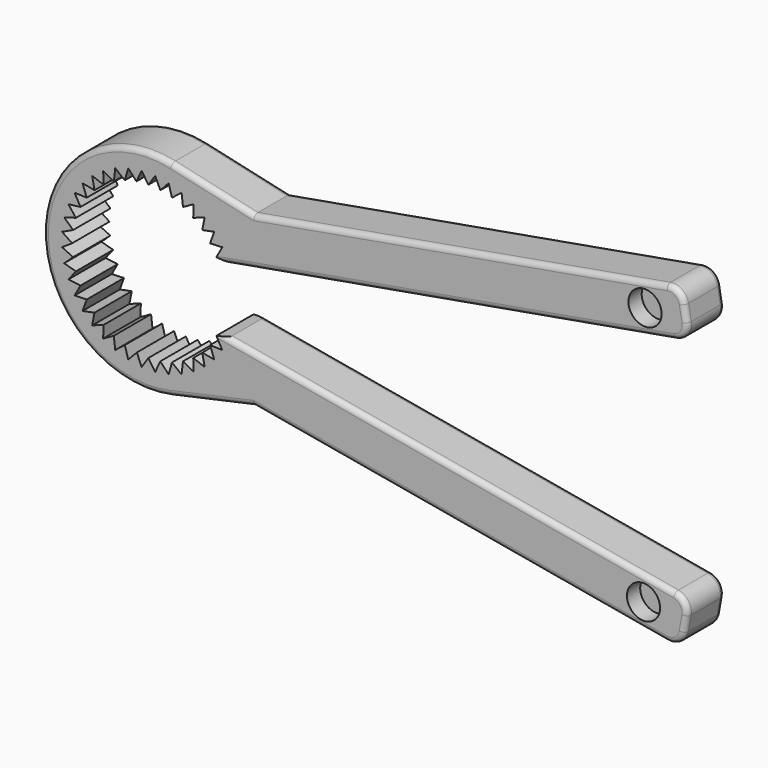
from build123d import *

# Parameters (mm, degrees)
F1_DEPTH = 9
F2_R     = 1
F3_R     = 3.2
F4_DEPTH = 3.2


with BuildPart() as f1:
    # F0 (on Front) → F1 (new body)
    with BuildSketch(Plane.XZ):
        with BuildLine():
            Line((58.237216, 30.312542), (-21.508595, 16.259921))
            Line((-21.508595, 16.259921), (-37.405091, 19.839976))
            ThreePointArc((-37.405091, 19.839976), (-62.198849, 0.063682), (-37.511886, -19.845765))
            Line((-37.511886, -19.845765), (-21.53597, -16.33806))
            Line((-21.53597, -16.33806), (58.206859, -30.407589))
            ThreePointArc((58.206859, -30.407589), (60.448586, -29.91086), (61.682485, -27.974479))
            Line((61.682485, -27.974479), (62.203743, -25.020111))
            ThreePointArc((62.203743, -25.020111), (61.707013, -22.778385), (59.770632, -21.544485))
            Line((59.770632, -21.544485), (-26.437625, -6.334219))
            Line((-26.437625, -6.334219), (-28.745186, -6.679076))
            Line((-28.745186, -6.679076), (-27.599835, -8.736546))
            Line((-27.599835, -8.736546), (-29.953032, -8.650102))
            Line((-29.953032, -8.650102), (-29.143641, -10.861413))
            Line((-29.143641, -10.861413), (-31.454344, -10.407912))
            Line((-31.454344, -10.407912), (-31.000843, -12.718615))
            Line((-31.000843, -12.718615), (-33.212154, -11.909224))
            Line((-33.212154, -11.909224), (-33.12571, -14.262421))
            Line((-33.12571, -14.262421), (-35.183179, -13.11707))
            Line((-35.183179, -13.11707), (-35.465921, -15.454818))
            Line((-35.465921, -15.454818), (-37.318887, -14.001709))
            Line((-37.318887, -14.001709), (-37.963852, -16.266445))
            Line((-37.963852, -16.266445), (-39.566689, -14.541358))
            Line((-39.566689, -14.541358), (-40.557996, -16.677317))
            Line((-40.557996, -16.677317), (-41.871236, -14.72273))
            Line((-41.871236, -14.72273), (-43.184476, -16.677317))
            Line((-43.184476, -16.677317), (-44.104438, -14.509645))
            Line((-44.104438, -14.509645), (-45.77862, -16.266445))
            Line((-45.77862, -16.266445), (-46.423584, -14.001709))
            Line((-46.423584, -14.001709), (-48.276551, -15.454818))
            Line((-48.276551, -15.454818), (-48.559292, -13.11707))
            Line((-48.559292, -13.11707), (-50.616762, -14.262421))
            Line((-50.616762, -14.262421), (-50.530318, -11.909224))
            Line((-50.530318, -11.909224), (-52.741629, -12.718615))
            Line((-52.741629, -12.718615), (-52.288128, -10.407912))
            Line((-52.288128, -10.407912), (-54.59883, -10.861413))
            Line((-54.59883, -10.861413), (-53.789439, -8.650102))
            Line((-53.789439, -8.650102), (-56.142637, -8.736546))
            Line((-56.142637, -8.736546), (-54.997285, -6.679076))
            Line((-54.997285, -6.679076), (-57.335034, -6.396335))
            Line((-57.335034, -6.396335), (-55.881924, -4.543369))
            Line((-55.881924, -4.543369), (-58.146661, -3.898404))
            Line((-58.146661, -3.898404), (-56.421574, -2.295567))
            Line((-56.421574, -2.295567), (-58.557533, -1.30426))
            Line((-58.557533, -1.30426), (-56.602946, 0.00898))
            Line((-56.602946, 0.00898), (-58.557533, 1.32222))
            Line((-58.557533, 1.32222), (-56.421574, 2.313527))
            Line((-56.421574, 2.313527), (-58.146661, 3.916364))
            Line((-58.146661, 3.916364), (-55.881924, 4.561329))
            Line((-55.881924, 4.561329), (-57.335034, 6.414295))
            Line((-57.335034, 6.414295), (-54.997285, 6.697036))
            Line((-54.997285, 6.697036), (-56.142637, 8.754506))
            Line((-56.142637, 8.754506), (-53.789439, 8.668062))
            Line((-53.789439, 8.668062), (-54.59883, 10.879373))
            Line((-54.59883, 10.879373), (-52.288128, 10.425872))
            Line((-52.288128, 10.425872), (-52.741629, 12.736575))
            Line((-52.741629, 12.736575), (-50.530318, 11.927184))
            Line((-50.530318, 11.927184), (-50.616762, 14.280381))
            Line((-50.616762, 14.280381), (-48.559292, 13.13503))
            Line((-48.559292, 13.13503), (-48.276551, 15.472778))
            Line((-48.276551, 15.472778), (-46.423584, 14.019669))
            Line((-46.423584, 14.019669), (-45.77862, 16.284405))
            Line((-45.77862, 16.284405), (-44.175783, 14.559318))
            Line((-44.175783, 14.559318), (-43.184476, 16.695277))
            Line((-43.184476, 16.695277), (-41.871236, 14.74069))
            Line((-41.871236, 14.74069), (-40.557996, 16.695277))
            Line((-40.557996, 16.695277), (-39.566689, 14.559318))
            Line((-39.566689, 14.559318), (-37.963852, 16.284405))
            Line((-37.963852, 16.284405), (-37.318887, 14.019669))
            Line((-37.318887, 14.019669), (-35.465921, 15.472778))
            Line((-35.465921, 15.472778), (-35.183179, 13.13503))
            Line((-35.183179, 13.13503), (-33.12571, 14.280381))
            Line((-33.12571, 14.280381), (-33.212154, 11.927184))
            Line((-33.212154, 11.927184), (-31.000843, 12.736575))
            Line((-31.000843, 12.736575), (-31.454344, 10.425872))
            Line((-31.454344, 10.425872), (-29.143641, 10.879373))
            Line((-29.143641, 10.879373), (-29.953032, 8.668062))
            Line((-29.953032, 8.668062), (-27.599835, 8.754506))
            Line((-27.599835, 8.754506), (-28.745186, 6.697036))
            Line((-28.745186, 6.697036), (-26.399793, 6.259337))
            Line((-26.399793, 6.259337), (59.79911, 21.449106))
            ThreePointArc((59.79911, 21.449106), (61.735753, 22.682595), (62.232957, 24.924216))
            Line((62.232957, 24.924216), (61.712326, 27.878694))
            ThreePointArc((61.712326, 27.878694), (60.478837, 29.815337), (58.237216, 30.312542))
        make_face()
    extrude(amount=F1_DEPTH)

    # F2
    f2_edges = [f1.edges().sort_by_distance(p)[0] for p in [
        (18.335444, -9, -23.372825),
        (-62.198849, -9, 0.063682),
        (18.364311, -9, 23.286231),
        (18.335444, 0, -23.372825),
        (18.364311, 0, 23.286231),
        (-62.198849, 0, 0.063682),
    ]]
    fillet(f2_edges, radius=F2_R)

    # F3 (on face) → F4 (cut)
    with BuildSketch(Plane.XZ.offset(9)):
        with Locations((54.094032, 25.013105)):
            Circle(F3_R)
        with Locations((53.80417, -25.107275)):
            Circle(F3_R)
    extrude(amount=-F4_DEPTH, mode=Mode.SUBTRACT)


solid = f1.part
